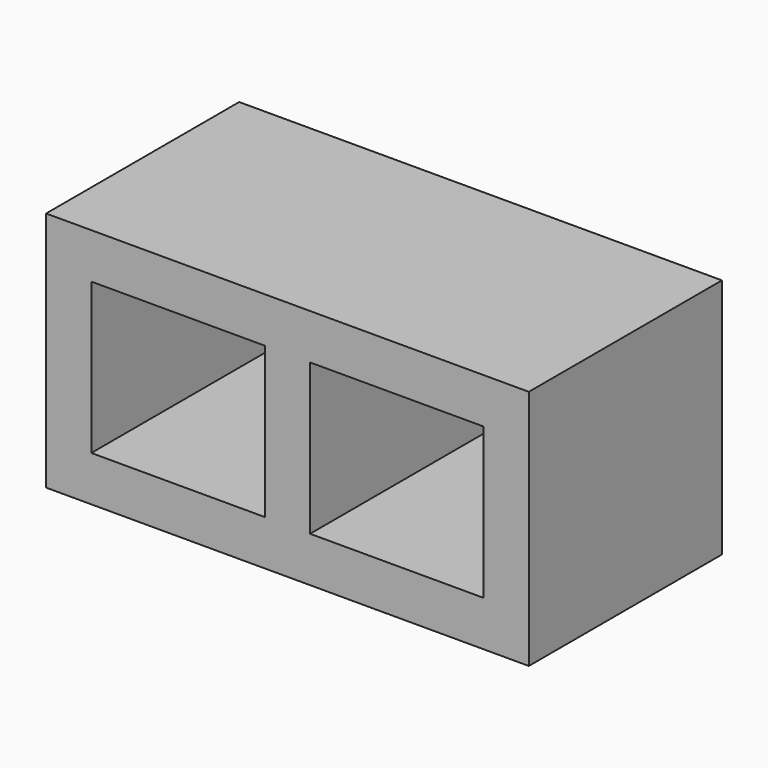
from build123d import *

# Parameters (mm, degrees)
F0_W     = 406.4
F0_H     = 203.2
F0_W_2   = 146.05
F0_H_2   = 127
F1_DEPTH = 203.2


with BuildPart() as f1:
    # F0 (on Front) → F1 (new body)
    with BuildSketch(Plane.XZ):
        Rectangle(F0_W, F0_H)
        with Locations((-92.075, 0)):
            Rectangle(F0_W_2, F0_H_2, mode=Mode.SUBTRACT)
        with Locations((92.075, 0)):
            Rectangle(F0_W_2, F0_H_2, mode=Mode.SUBTRACT)
    extrude(amount=-F1_DEPTH)


solid = f1.part
